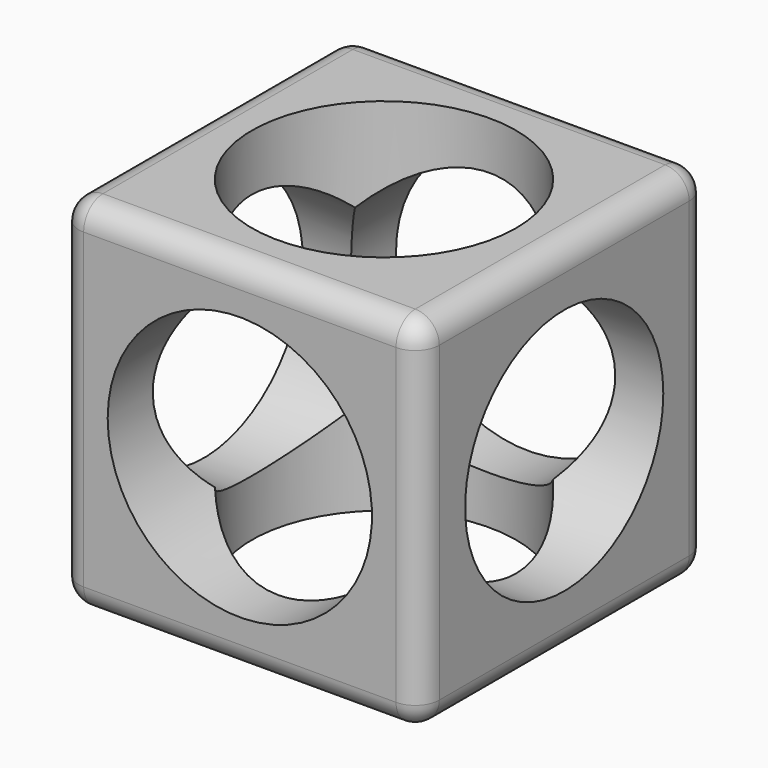
from build123d import *

# Parameters (mm, degrees)
F0_W     = 76.2
F0_H     = 76.2
F1_DEPTH = 76.2
F2_R     = 5.08
F3_R     = 27.94
F4_DEPTH = 83.82
F5_R     = 26.185902
F6_DEPTH = 78.74
F7_R     = 27.94
F8_DEPTH = 78.74


with BuildPart() as f1:
    # F0 (on Top) → F1 (new body)
    with BuildSketch(Plane.XY):
        Rectangle(F0_W, F0_H)
    extrude(amount=F1_DEPTH)

    # F2
    f2_edges = [f1.edges().sort_by_distance(p)[0] for p in [
        (-38.1, -38.1, 38.1),
        (38.1, -38.1, 38.1),
        (0, -38.1, 0),
        (0, -38.1, 76.2),
        (38.1, 38.1, 38.1),
        (38.1, 0, 0),
        (38.1, 0, 76.2),
        (0, 38.1, 76.2),
        (-38.1, 0, 76.2),
        (-38.1, 38.1, 38.1),
        (0, 38.1, 0),
        (-38.1, 0, 0),
    ]]
    fillet(f2_edges, radius=F2_R)

    # F3 (on face) → F4 (cut)
    with BuildSketch(Plane(origin=(0, 0, 0), x_dir=(1, 0, 0), z_dir=(0, 0, -1))):
        Circle(F3_R)
    extrude(amount=-F4_DEPTH, mode=Mode.SUBTRACT)

    # F5 (on face) → F6 (cut)
    with BuildSketch(Plane.YZ.offset(38.1)):
        with Locations((0, 38.1)):
            Circle(F5_R)
    extrude(amount=-F6_DEPTH, mode=Mode.SUBTRACT)

    # F7 (on face) → F8 (cut)
    with BuildSketch(Plane(origin=(0, 38.1, 0), x_dir=(-1, 0, 0), z_dir=(0, 1, 0))):
        with Locations((0, 38.1)):
            Circle(F7_R)
    extrude(amount=-F8_DEPTH, mode=Mode.SUBTRACT)


solid = f1.part
